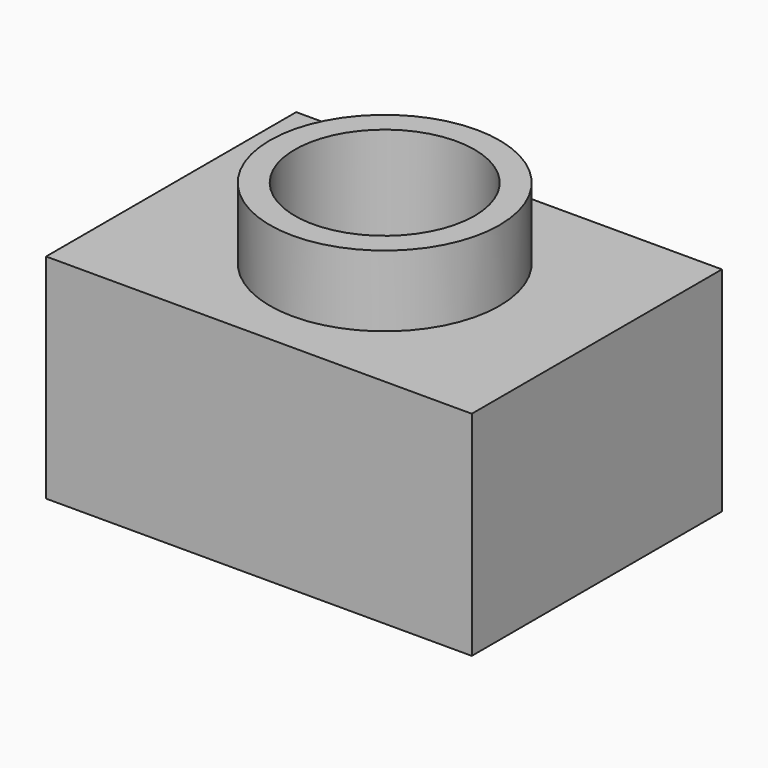
from build123d import *

# Parameters (mm, degrees)
F0_R     = 41.040964
F0_R_2   = 32.107366
F1_DEPTH = 101.6
F0_W     = 152.169093
F0_H     = 111.759998
F2_DEPTH = 76.2


with BuildPart() as f1:
    # F0 (on Top) → F1 (new body)
    with BuildSketch(Plane.XY):
        Circle(F0_R)
        Circle(F0_R_2, mode=Mode.SUBTRACT)
    extrude(amount=F1_DEPTH)

    # F0 (on Top) → F2 (join)
    with BuildSketch(Plane.XY):
        with Locations((-0.346363, 0.115454)):
            Rectangle(F0_W, F0_H)
        Circle(F0_R, mode=Mode.SUBTRACT)
    extrude(amount=F2_DEPTH)


solid = f1.part
